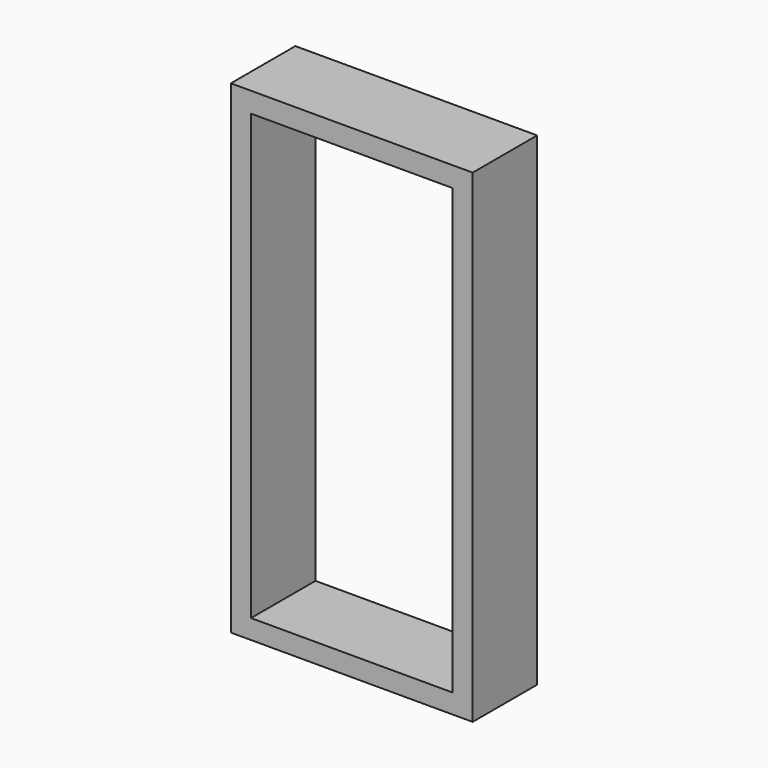
from build123d import *

# Parameters (mm, degrees)
F2_DEPTH = 20


with BuildPart() as f2:
    # F0 (on Front) → F2 (new body)
    with BuildSketch(Plane.XZ):
        Polygon((-25, 0), (-30, 0), (-30, -60), (0, -60), (0, -55.198602), (-25, -55.198602), align=None)
        Polygon((0, 55), (0, 60), (-30, 60), (-30, 0), (-25, 0), (-25, 55), align=None)
        Polygon((30, 60), (0, 60), (0, 55), (25, 55), (25, 0), (30, 0), align=None)
        Polygon((30, -60), (30, 0), (25, 0), (25, -55.198602), (0, -55.198602), (0, -60), align=None)
    extrude(amount=F2_DEPTH)


solid = f2.part
